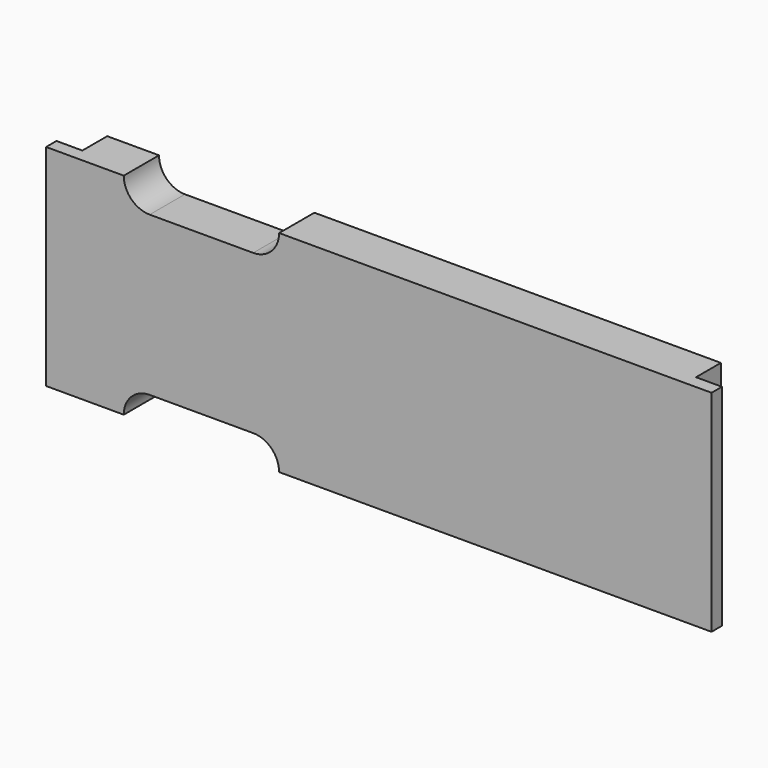
from build123d import *

# Parameters (mm, degrees)
PAD_DEPTH    = 40.64
POCKET_DEPTH = 21


with BuildPart() as part:
    # Sketch → Pad (new body)
    with BuildSketch(Plane.XY):
        Polygon((0, 0), (0, 2.51), (5, 2.51), (4.999966, 8.51), (123.5, 8.51), (123.5, 2.51), (128.5, 2.51), (128.5, 0), align=None)
    extrude(amount=PAD_DEPTH)

    # Sketch002 → Pocket (cut)
    with BuildSketch(Plane.XZ):
        with BuildLine():
            ThreePointArc((20, 5), (15, 0), (20, -5))
            Line((20, -5), (40, -5))
            ThreePointArc((40, -5), (45, 0), (40, 5))
            Line((40, 5), (20, 5))
        make_face()
        with BuildLine():
            ThreePointArc((20, 45.64), (15, 40.64), (20, 35.64))
            Line((20, 35.64), (40, 35.64))
            ThreePointArc((40, 35.64), (45, 40.64), (40, 45.64))
            Line((40, 45.64), (20, 45.64))
        make_face()
    extrude(amount=-POCKET_DEPTH, mode=Mode.SUBTRACT)


solid = part.part
